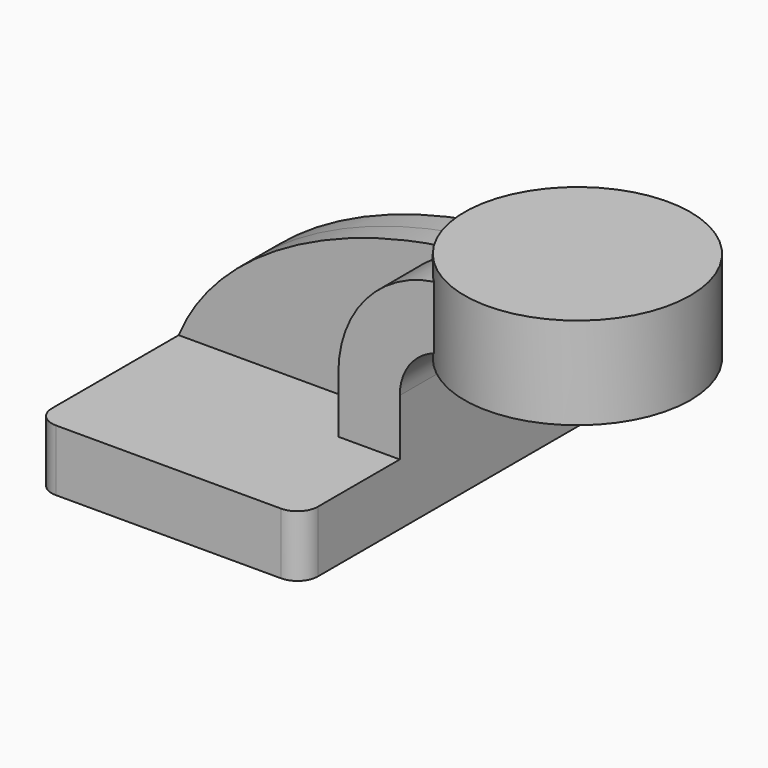
from build123d import *

# Parameters (mm, degrees)
F1_DEPTH = 63.5
F0_W     = 15.748692
F0_H     = 4.7752
F2_DEPTH = 25.4
F3_DEPTH = 7.9375
F5_R     = 6.35


with BuildPart() as f1:
    # F0 (on Front) → F1 (new body, symmetric)
    with BuildSketch(Plane.XZ):
        Polygon((-41.275, 9.525), (-41.275, -9.525), (41.275, -9.525), (41.275, 9.525), (22.225, 9.525), align=None)
    extrude(amount=F1_DEPTH, both=True)

    # F0 (on Front) → F2 (join, symmetric)
    with BuildSketch(Plane.XZ):
        with Locations((68.199346, 40.4876)):
            Rectangle(F0_W, F0_H)
        with BuildLine():
            Line((22.225, 9.525), (41.275, 9.525))
            Line((41.275, 9.525), (41.275, 27.0002))
            ThreePointArc((41.275, 27.0002), (45.92468, 38.22552), (57.15, 42.8752))
            Line((57.15, 42.8752), (60.325, 42.8752))
            Line((60.325, 42.8752), (60.325, 61.9252))
            Line((60.325, 61.9252), (57.15, 61.9252))
            add(Edge.make_bspline(
                [(54.028564, 61.78543), (55.069144, 61.843048), (56.109775, 61.889675), (57.15, 61.9252)],
                knots=[108.777413, 108.777413, 108.777413, 108.777413, 111.504536, 111.504536, 111.504536, 111.504536], degree=3))
            ThreePointArc((54.028564, 61.78543), (31.374316, 50.566484), (22.225, 27.0002))
            Line((22.225, 27.0002), (22.225, 9.525))
        make_face()
    extrude(amount=F2_DEPTH, both=True)

    # F0 (on Front) → F3 (join, symmetric)
    with BuildSketch(Plane.XZ):
        with BuildLine():
            add(Edge.make_bspline(
                [(-41.275, 9.525), (-28.903485, 39.703747), (12.522665, 59.487237), (54.028564, 61.78543)],
                knots=[0, 0, 0, 0, 108.777413, 108.777413, 108.777413, 108.777413], degree=3))
            Line((-41.275, 9.525), (22.225, 9.525))
            Line((22.225, 9.525), (22.225, 27.0002))
            ThreePointArc((22.225, 27.0002), (31.374316, 50.566484), (54.028564, 61.78543))
        make_face()
    extrude(amount=F3_DEPTH, both=True)

    # F0 (on Front) → F4 (revolve)
    with BuildSketch(Plane.XZ):
        Polygon((76.073692, 66.675), (76.073692, 61.9252), (76.073692, 42.8752), (76.073692, 38.1), (111.125, 38.1), (111.125, 66.675), align=None)
    revolve(axis=Axis((76.073692, 0, 52.4002), (0, 0, 1)))

    # F5
    f5_edges = [f1.edges().sort_by_distance(p)[0] for p in [
        (41.275, -63.5, 0),
        (-41.275, -63.5, 0),
        (-41.275, 63.5, 0),
        (41.275, 63.5, 0),
    ]]
    fillet(f5_edges, radius=F5_R)


solid = f1.part
